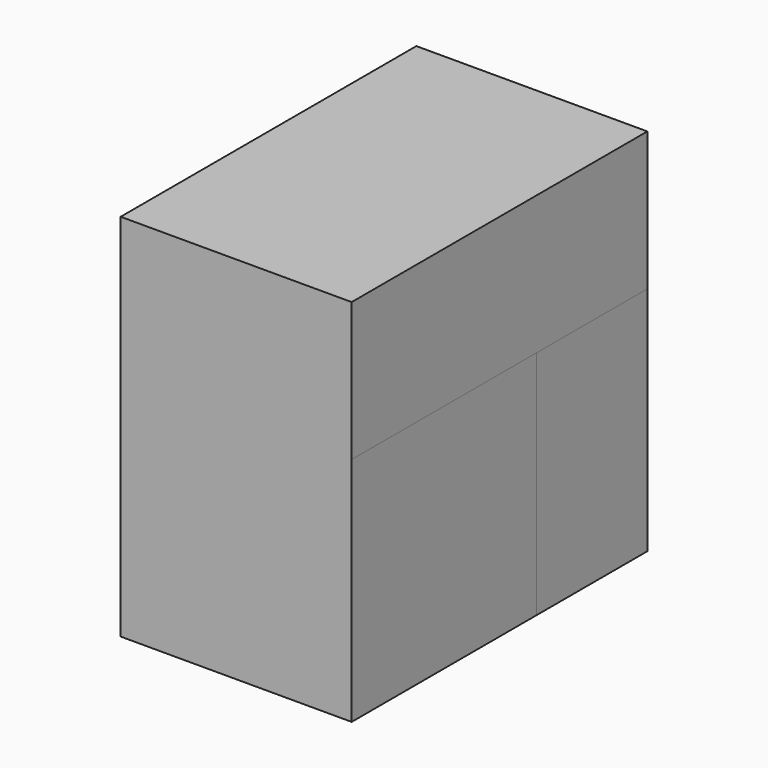
from build123d import *

# Parameters (mm, degrees)
SKETCH_W                = 500
SKETCH_H                = 800
PAD_DEPTH               = 18
SKETCH011_W             = 500
SKETCH011_H             = 18
POCKET_DEPTH            = 9
CHAMFER_SIZE            = 17.9982
SKETCH002_W             = 800
SKETCH002_H             = 800
PAD001_DEPTH            = 18
CHAMFER001_SIZE         = 17.9982
SKETCH007_W             = 782
SKETCH007_H             = 18
POCKET002_DEPTH         = 9
BODY001_PLACEMENT_ANGLE = 180
SKETCH003_W             = 500
SKETCH003_H             = 800
PAD002_DEPTH            = 18
CHAMFER002_SIZE         = 17.9982
SKETCH006_W             = 491
SKETCH006_H             = 18
POCKET001_DEPTH         = 9
SKETCH004_W             = 500
SKETCH004_H             = 800
PAD003_DEPTH            = 18
CHAMFER003_SIZE         = 17.9982
SKETCH005_W             = 500
SKETCH005_H             = 500
PAD004_DEPTH            = 18
CHAMFER004_SIZE         = 17.9982
SKETCH009_W             = 491
SKETCH009_H             = 782
PAD005_DEPTH            = 18
CHAMFER005_SIZE         = 17.9982
SKETCH010_W             = 800
SKETCH010_H             = 300
PAD006_DEPTH            = 18
CHAMFER006_SIZE         = 17.9982
SKETCH012_W             = 300
SKETCH012_H             = 500
PAD007_DEPTH            = 18
CHAMFER007_SIZE         = 17.9982


with BuildPart() as front:
    # Sketch → Pad (new body)
    with BuildSketch(Plane.XZ):
        with Locations((0, 400)):
            Rectangle(SKETCH_W, SKETCH_H)
    extrude(amount=PAD_DEPTH)

    # Sketch011 (on Face5 of Pad) → Pocket (cut)
    with BuildSketch(Plane(origin=(0, 0, 0), x_dir=(1, 0, 0), z_dir=(0, 1, 0))):
        with Locations((0, -509)):
            Rectangle(SKETCH011_W, SKETCH011_H)
    extrude(amount=-POCKET_DEPTH, mode=Mode.SUBTRACT)

    # Chamfer
    chamfer_edges = [front.edges().sort_by_distance(p)[0] for p in [
        (0, 0, 800),
        (250, 0, 659),
        (-250, 0, 659),
    ]]
    chamfer(chamfer_edges, length=CHAMFER_SIZE)


with BuildPart() as front_1:
    # Body placement: moved
    add(front.part.moved(Location((0, 18, 0))))


with BuildPart() as left:
    # Sketch002 → Pad001 (new body)
    with BuildSketch(Plane.YZ):
        with Locations((400, 400)):
            Rectangle(SKETCH002_W, SKETCH002_H)
    extrude(amount=PAD001_DEPTH)

    # Chamfer001
    chamfer001_edges = [left.edges().sort_by_distance(p)[0] for p in [
        (0, 800, 400),
        (0, 400, 800),
        (0, 0, 400),
    ]]
    chamfer(chamfer001_edges, length=CHAMFER001_SIZE)

    # Sketch007 (on Face5 of Chamfer001) → Pocket002 (cut)
    with BuildSketch(Plane(origin=(0, 0, 0), x_dir=(0, 1, 0), z_dir=(-1, 0, 0))):
        with Locations((400, -509)):
            Rectangle(SKETCH007_W, SKETCH007_H)
    extrude(amount=-POCKET002_DEPTH, mode=Mode.SUBTRACT)


with BuildPart() as left_1:
    # Body001 placement: moved
    add(left.part.moved(Location((-232, 800, 0))).rotate(Axis((-232, 800, 0), (0, 0, 1)), BODY001_PLACEMENT_ANGLE))


with BuildPart() as back:
    # Sketch003 → Pad002 (new body)
    with BuildSketch(Plane.XZ):
        with Locations((0, 400)):
            Rectangle(SKETCH003_W, SKETCH003_H)
    extrude(amount=PAD002_DEPTH)

    # Chamfer002
    chamfer002_edges = [back.edges().sort_by_distance(p)[0] for p in [
        (250, -18, 400),
        (0, -18, 800),
        (-250, -18, 400),
    ]]
    chamfer(chamfer002_edges, length=CHAMFER002_SIZE)

    # Sketch006 (on Face8 of Chamfer002) → Pocket001 (cut)
    with BuildSketch(Plane.XZ.offset(18)):
        with Locations((4.5, 509)):
            Rectangle(SKETCH006_W, SKETCH006_H)
    extrude(amount=-POCKET001_DEPTH, mode=Mode.SUBTRACT)


with BuildPart() as back_1:
    # Body003 placement: moved
    add(back.part.moved(Location((0, 800, 0))))


with BuildPart() as top:
    # Sketch004 → Pad003 (new body)
    with BuildSketch(Plane.XY):
        with Locations((0, 400)):
            Rectangle(SKETCH004_W, SKETCH004_H)
    extrude(amount=PAD003_DEPTH)

    # Chamfer003
    chamfer003_edges = [top.edges().sort_by_distance(p)[0] for p in [
        (0, 800, 0),
        (250, 400, 0),
        (0, 0, 0),
        (-250, 400, 0),
    ]]
    chamfer(chamfer003_edges, length=CHAMFER003_SIZE)


with BuildPart() as top_1:
    # Body004 placement: moved
    add(top.part.moved(Location((0, 0, 782))))


with BuildPart() as right:
    # Sketch005 → Pad004 (new body)
    with BuildSketch(Plane.YZ):
        with Locations((250, 250)):
            Rectangle(SKETCH005_W, SKETCH005_H)
    extrude(amount=PAD004_DEPTH)

    # Chamfer004
    chamfer004_edges = [right.edges().sort_by_distance(p)[0] for p in [
        (0, 0, 250),
    ]]
    chamfer(chamfer004_edges, length=CHAMFER004_SIZE)


with BuildPart() as right_1:
    # Body005 placement: moved
    add(right.part.moved(Location((232, 0, 0))))


with BuildPart() as inner_shelf:
    # Sketch009 → Pad005 (new body)
    with BuildSketch(Plane.XY):
        with Locations((4.5, 400)):
            Rectangle(SKETCH009_W, SKETCH009_H)
    extrude(amount=PAD005_DEPTH)

    # Chamfer005
    chamfer005_edges = [inner_shelf.edges().sort_by_distance(p)[0] for p in [
        (250, 400, 18),
    ]]
    chamfer(chamfer005_edges, length=CHAMFER005_SIZE)


with BuildPart() as inner_shelf_1:
    # Body006 placement: moved
    add(inner_shelf.part.moved(Location((0, 0, 500))))


with BuildPart() as cover:
    # Sketch010 → Pad006 (new body)
    with BuildSketch(Plane.YZ):
        with Locations((400, 650)):
            Rectangle(SKETCH010_W, SKETCH010_H)
    extrude(amount=PAD006_DEPTH)

    # Chamfer006
    chamfer006_edges = [cover.edges().sort_by_distance(p)[0] for p in [
        (0, 400, 800),
        (0, 800, 650),
        (0, 400, 500),
        (0, 0, 650),
    ]]
    chamfer(chamfer006_edges, length=CHAMFER006_SIZE)


with BuildPart() as cover_1:
    # Body007 placement: moved
    add(cover.part.moved(Location((232, 0, 0))))


with BuildPart() as dog_door:
    # Sketch012 → Pad007 (new body)
    with BuildSketch(Plane.YZ):
        with Locations((650, 250)):
            Rectangle(SKETCH012_W, SKETCH012_H)
    extrude(amount=PAD007_DEPTH)

    # Chamfer007
    chamfer007_edges = [dog_door.edges().sort_by_distance(p)[0] for p in [
        (0, 800, 250),
    ]]
    chamfer(chamfer007_edges, length=CHAMFER007_SIZE)


with BuildPart() as dog_door_1:
    # Body008 placement: moved
    add(dog_door.part.moved(Location((232, 0, 0))))


solid = Compound([front_1.part, left_1.part, back_1.part, top_1.part, right_1.part, inner_shelf_1.part, cover_1.part, dog_door_1.part])
